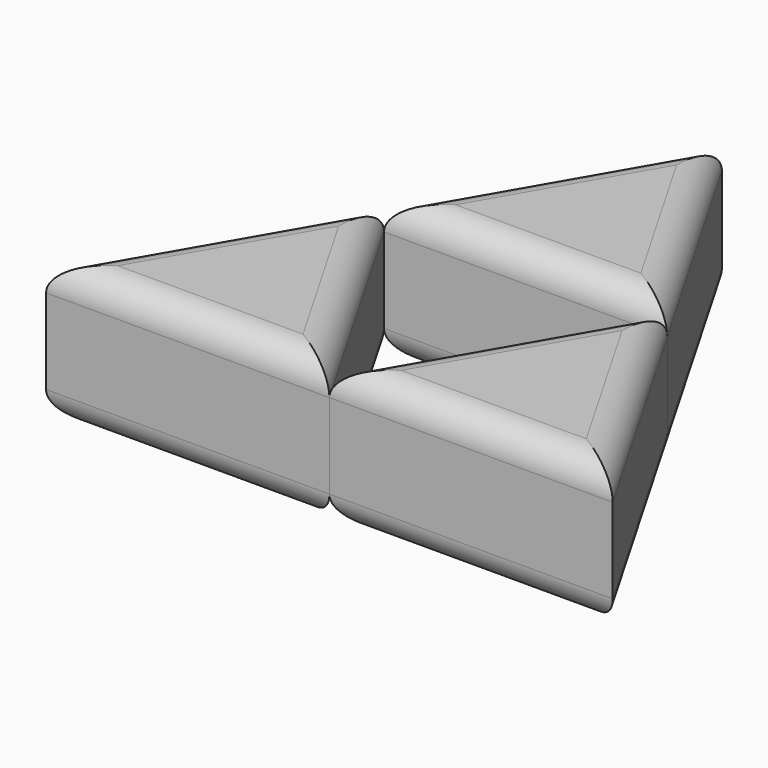
from build123d import *

# Parameters (mm, degrees)
F1_DEPTH = 12.7
F2_R     = 2.54
F2_2_R   = 2.54
F2_3_R   = 2.54


with BuildPart() as f1:
    # F0 (on Top) → F1 (new body)
    with BuildSketch(Plane.XY):
        Polygon((25.4, 43.9940905122), (12.7, 21.9970452561), (38.1, 21.9970452561), align=None)
    extrude(amount=F1_DEPTH)

    # F2#3
    f2_3_edges = [f1.edges().sort_by_distance(p)[0] for p in [
        (25.4, 21.997045, 12.7),
        (19.05, 32.995568, 12.7),
        (31.75, 32.995568, 12.7),
        (19.05, 32.995568, 0),
        (31.75, 32.995568, 0),
        (25.4, 21.997045, 0),
    ]]
    fillet(f2_3_edges, radius=F2_3_R)


with BuildPart() as f1b:
    # F0 (on Top) → F1, piece 2 (new body)
    with BuildSketch(Plane.XY):
        Polygon((12.7, 21.9970452561), (0, 0), (25.4, 0), align=None)
    extrude(amount=F1_DEPTH)

    # F2#2
    f2_2_edges = [f1b.edges().sort_by_distance(p)[0] for p in [
        (12.7, 0, 12.7),
        (19.05, 10.998523, 12.7),
        (6.35, 10.998523, 12.7),
        (12.7, 0, 0),
        (6.35, 10.998523, 0),
        (19.05, 10.998523, 0),
    ]]
    fillet(f2_2_edges, radius=F2_2_R)


with BuildPart() as f1c:
    # F0 (on Top) → F1, piece 3 (new body)
    with BuildSketch(Plane.XY):
        Polygon((38.1, 21.9970452561), (25.4, 0), (50.8, 0), align=None)
    extrude(amount=F1_DEPTH)

    # F2
    f2_edges = [f1c.edges().sort_by_distance(p)[0] for p in [
        (38.1, 0, 12.7),
        (44.45, 10.998523, 12.7),
        (38.1, 0, 0),
        (31.75, 10.998523, 0),
        (31.75, 10.998523, 12.7),
        (44.45, 10.998523, 0),
    ]]
    fillet(f2_edges, radius=F2_R)


solid = Compound([f1.part, f1b.part, f1c.part])
